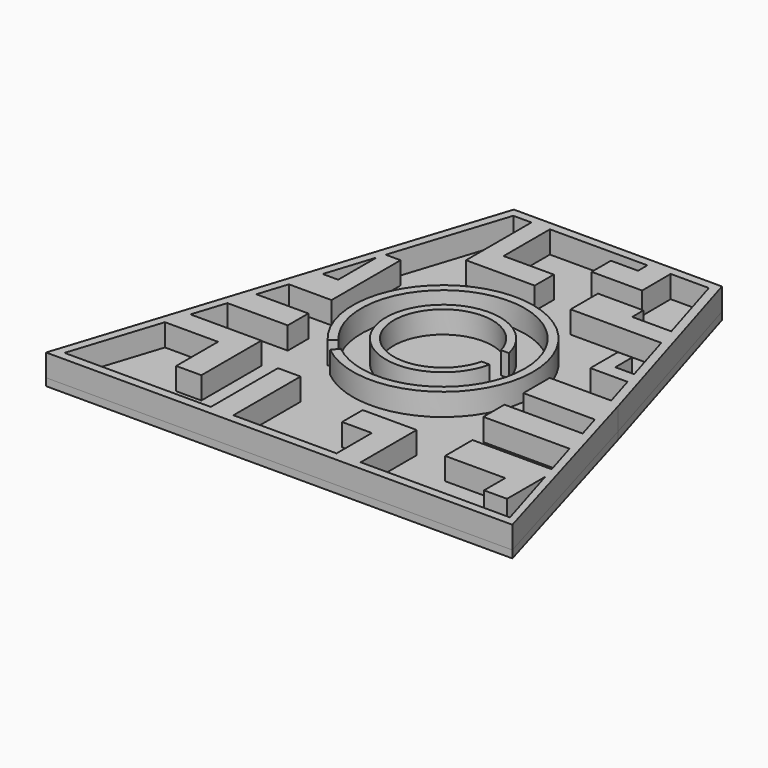
from build123d import *

# Parameters (mm, degrees)
F1_DEPTH = 6
F3_DEPTH = 2


with BuildPart() as f1:
    # F0 (on Top) → F1 (new body)
    with BuildSketch(Plane.XY):
        Polygon((31.02684, 55.218102), (-25.080338, 55.218102), (-61.285395, -57.208124), (64.45944, -57.208124), (48.040494, -0.995011), align=None)
        Polygon((-38.165009, 7.129115), (-33.985533, 20.107488), (-33.985533, 7.129115), align=None, mode=Mode.SUBTRACT)
        Polygon((-18.69175, -54.922123), (-58.147611, -54.922123), (-50.37416, -30.78351), (-36.052592, -30.78351), (-36.052592, -44.886969), (-29.272085, -44.886969), (-29.272085, -24.660298), (-48.402278, -24.660298), (-45.537765, -15.765233), (-29.272085, -15.765233), (-29.272085, -8.814661), (-43.299445, -8.814661), (-40.781253, -0.995011), (-29.272085, -0.995011), (-29.272085, 22.277087), (-33.286848, 22.277087), (-23.414895, 52.932101), (-18.522084, 52.932101), (-18.522084, 30.891184), (0, 30.891184), (0, 37.322167), (-13.531355, 37.322167), (-13.531355, 52.932101), (12.766849, 52.932101), (12.766849, 49.768932), (5.444119, 49.768932), (5.444119, 43.26748), (19.080047, 43.26748), (19.027118, 52.932101), (29.330317, 52.932101), (35.496749, 32.55821), (24.948584, 32.55821), (24.948584, 36.370665), (12.675159, 36.370665), (12.675159, 27.149832), (37.133668, 27.149832), (41.590816, 12.423414), (36.50593, 12.423414), (36.50593, 18.132837), (32.656435, 18.132837), (32.656435, 8.828281), (42.678931, 8.828281), (45.350929, 0), (28.766816, 0), (28.766816, -8.886324), (48.040494, -8.886324), (50.036919, -15.48251), (28.950065, -15.48251), (28.950065, -22.606234), (52.19301, -22.606234), (55.12387, -32.289796), (33.782568, -32.289796), (33.782568, -41.543938), (49.999971, -41.543938), (49.999971, -48.686597), (56.197815, -48.686597), (56.197815, -35.83811), (61.973847, -54.922123), (21.72406, -54.922123), (21.72406, -36.057886), (7.178711, -36.057886), (7.178711, -43.02308), (15.22084, -43.02308), (15.22084, -54.922123), (-12.599994, -54.922123), (-12.599994, -32.289796), (-18.69175, -32.289796), align=None, mode=Mode.SUBTRACT)
        with BuildLine():
            Line((-13.89994, -17.100372), (-15.341842, -18.874269))
            ThreePointArc((-15.341842, -18.874269), (17.003173, 17.392592), (-18.522084, -15.765233))
            Line((-18.522084, -15.765233), (-16.781286, -14.283538))
            ThreePointArc((-16.781286, -14.283538), (15.405131, 15.75795), (-13.89994, -17.100372))
        make_face()
        with BuildLine():
            Line((12.847613, 3.458851), (15.020158, 3.458851))
            ThreePointArc((15.020158, 3.458851), (-15.412404, -0.163065), (15.089978, -3.140283))
            Line((15.089978, -3.140283), (12.92917, -3.140283))
            ThreePointArc((12.92917, -3.140283), (-13.304051, -0.164421), (12.847613, 3.458851))
        make_face()
    extrude(amount=F1_DEPTH)


with BuildPart() as f3:
    # F2 (on Top) → F3 (new body)
    with BuildSketch(Plane.XY):
        Polygon((-25.080338, 55.218102), (-61.285395, -57.208124), (64.45944, -57.208124), (48.040494, -0.995011), (31.02684, 55.218102), align=None)
    extrude(amount=-F3_DEPTH)


solid = Compound([f1.part, f3.part])
